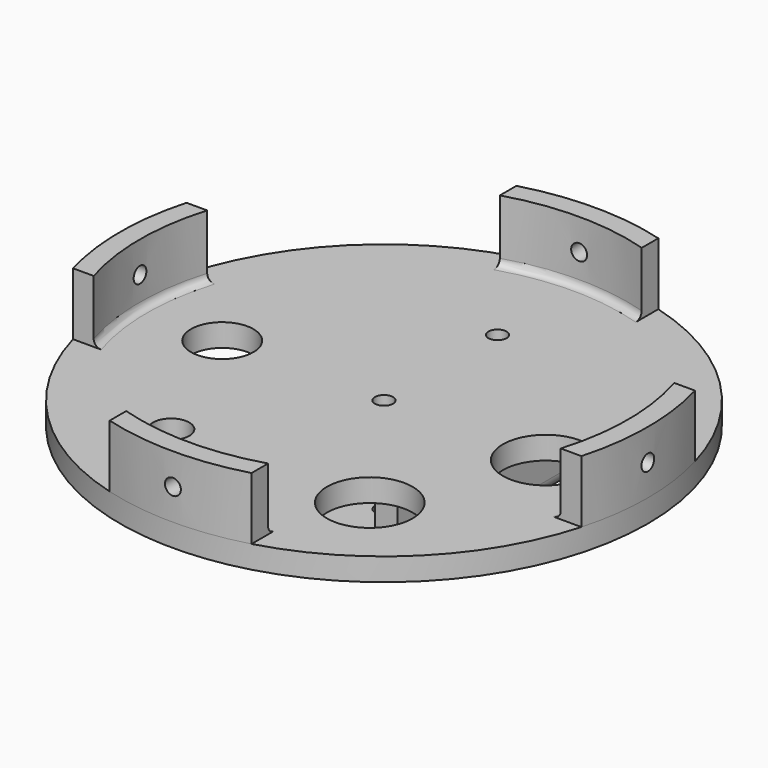
from build123d import *

# Parameters (mm, degrees)
SKETCH156_R       = 3.2
EXTRUDE057_DEPTH  = 50
EXTRUDE054_DEPTH  = 10
CYLINDER179_R     = 2.8
CYLINDER179_DEPTH = 300
CYLINDER180_R     = 2.8
CYLINDER180_DEPTH = 300
EXTRUDE055_DEPTH  = 30
SKETCH152_R       = 93
SKETCH152_R_2     = 11
SKETCH152_R_3     = 15.1
SKETCH152_R_4     = 6.4
EXTRUDE053_DEPTH  = 8
EXTRUDE056_DEPTH  = 100
FILLET024_R       = 5
FILLET025_R       = 2
FILLET026_R       = 5
FILLET027_R       = 2.5


with BuildPart() as extrude057:
    # Sketch156 → Extrude057 (new body)
    with BuildSketch(Plane.XY):
        with Locations((0, -150)):
            Circle(SKETCH156_R)
        with Locations((0, -100)):
            Circle(SKETCH156_R)
    extrude(amount=EXTRUDE057_DEPTH)


with BuildPart() as extrude057_1:
    # Extrude057 placement: moved
    add(extrude057.part.moved(Location((0, 0, -290))))


with BuildPart() as obj1:
    # Sketch153 → Extrude054 (new body)
    with BuildSketch(Plane.XY):
        with BuildLine():
            ThreePointArc((-5, -220), (0, -225), (5, -220))
            Line((5, -220), (5, -212.5))
            ThreePointArc((5, -212.5), (0, -207.5), (-5, -212.5))
            Line((-5, -212.5), (-5, -220))
        make_face()
    extrude(amount=EXTRUDE054_DEPTH)


with BuildPart() as obj1_1:
    # Extrude054 placement: moved
    add(obj1.part.moved(Location((0, 0, -246.5))))


with BuildPart() as cylinder179:
    # Cylinder179 → Cylinder179 (new body)
    with BuildSketch(Plane(origin=(0, 0, 90), x_dir=(1, 0, 0), z_dir=(0, -1, 0))):
        Circle(CYLINDER179_R)
    extrude(amount=CYLINDER179_DEPTH)


with BuildPart() as m4heatsetcuts004:
    # Cylinder180 → Cylinder180 (new body)
    with BuildSketch(Plane(origin=(-150, -150, 90), x_dir=(0, 1, 0), z_dir=(1, 0, 0))):
        Circle(CYLINDER180_R)
    extrude(amount=CYLINDER180_DEPTH)

    # Fusion131: union Cylinder179
    add(cylinder179.part)


with BuildPart() as m4heatsetcuts004_1:
    # Fusion131 placement: moved
    add(m4heatsetcuts004.part.moved(Location((0, 0, -321))))


with BuildPart() as obj2:
    # Sketch154 → Extrude055 (new body)
    with BuildSketch(Plane.XY):
        with BuildLine():
            ThreePointArc((-89.576783, -125), (-93, -150), (-89.576783, -175))
            Line((-89.576783, -175), (-82.286086, -175))
            ThreePointArc((-82.286086, -125), (-86, -150), (-82.286086, -175))
            Line((-89.576783, -125), (-82.286086, -125))
        make_face()
        with BuildLine():
            ThreePointArc((25, -60.423217), (0, -57), (-25, -60.423217))
            Line((-25, -60.423217), (-25, -67.713914))
            ThreePointArc((25, -67.713914), (0, -64), (-25, -67.713914))
            Line((25, -60.423217), (25, -67.713914))
        make_face()
        with BuildLine():
            ThreePointArc((89.576783, -175), (93, -150), (89.576783, -125))
            Line((89.576783, -125), (82.286086, -125))
            ThreePointArc((82.286086, -175), (86, -150), (82.286086, -125))
            Line((89.576783, -175), (82.286086, -175))
        make_face()
        with BuildLine():
            ThreePointArc((-25, -239.576783), (0, -243), (25, -239.576783))
            Line((25, -239.576783), (25, -232.286086))
            ThreePointArc((-25, -232.286086), (0, -236), (25, -232.286086))
            Line((-25, -239.576783), (-25, -232.286086))
        make_face()
    extrude(amount=EXTRUDE055_DEPTH)


with BuildPart() as obj2_1:
    # Extrude055 placement: moved
    add(obj2.part.moved(Location((0, 0, -250))))


with BuildPart() as level5s009:
    # Sketch152 → Extrude053 (new body)
    with BuildSketch(Plane.XY):
        with Locations((0, -150)):
            Circle(SKETCH152_R)
        with Locations((-57, -150)):
            Circle(SKETCH152_R_2, mode=Mode.SUBTRACT)
        with Locations((57, -150)):
            Circle(SKETCH152_R_3, mode=Mode.SUBTRACT)
        with Locations((35, -200)):
            Circle(SKETCH152_R_3, mode=Mode.SUBTRACT)
        with Locations((-35, -200)):
            Circle(SKETCH152_R_4, mode=Mode.SUBTRACT)
        with BuildLine():
            ThreePointArc((-3.2, -216.158125), (0, -225), (3.2, -216.158125))
            Line((3.2, -216.158125), (3.2, -212.5))
            ThreePointArc((3.2, -212.5), (0, -209.3), (-3.2, -212.5))
            Line((-3.2, -212.5), (-3.2, -216.158125))
        make_face(mode=Mode.SUBTRACT)
    extrude(amount=EXTRUDE053_DEPTH)


with BuildPart() as level5s009_1:
    # Extrude053 placement: moved
    add(level5s009.part.moved(Location((0, 0, -250))))

    # Fusion130: union obj2
    add(obj2_1.part)

    # Cut095: cut m4HeatSetCuts004
    add(m4heatsetcuts004_1.part, mode=Mode.SUBTRACT)

    # Cut096: cut obj1
    add(obj1_1.part, mode=Mode.SUBTRACT)


with BuildPart() as obj3:
    # Sketch155 → Extrude056 (new body)
    with BuildSketch(Plane.XZ):
        Polygon((-20.75, -250), (-12.75, -250), (-12.75, -275.75), (12.75, -275.75), (12.75, -250), (20.75, -250), (20.75, -283.75), (-20.75, -283.75), align=None)
    extrude(amount=EXTRUDE056_DEPTH)


with BuildPart() as obj3_1:
    # Extrude056 placement: moved
    add(obj3.part.moved(Location((0, -70, 0))))

    # Fillet024
    fillet024_edges = [obj3_1.edges().sort_by_distance(p)[0] for p in [
        (20.75, -120, -283.75),
        (-20.75, -120, -283.75),
    ]]
    fillet(fillet024_edges, radius=FILLET024_R)

    # Fillet025
    fillet025_edges = [obj3_1.edges().sort_by_distance(p)[0] for p in [
        (12.75, -120, -275.75),
        (-12.75, -120, -275.75),
    ]]
    fillet(fillet025_edges, radius=FILLET025_R)

    # Fusion132: union level5s009
    add(level5s009_1.part)

    # Fillet026
    fillet026_edges = [obj3_1.edges().sort_by_distance(p)[0] for p in [
        (-20.75, -120, -250),
        (20.75, -120, -250),
    ]]
    fillet(fillet026_edges, radius=FILLET026_R)

    # Cut097: cut Extrude057
    add(extrude057_1.part, mode=Mode.SUBTRACT)

    # Fillet027
    fillet027_edges = [obj3_1.edges().sort_by_distance(p)[0] for p in [
        (86, -150, -242),
        (0, -64, -242),
        (0, -236, -242),
        (-86, -150, -242),
    ]]
    fillet(fillet027_edges, radius=FILLET027_R)


solid = obj3_1.part
